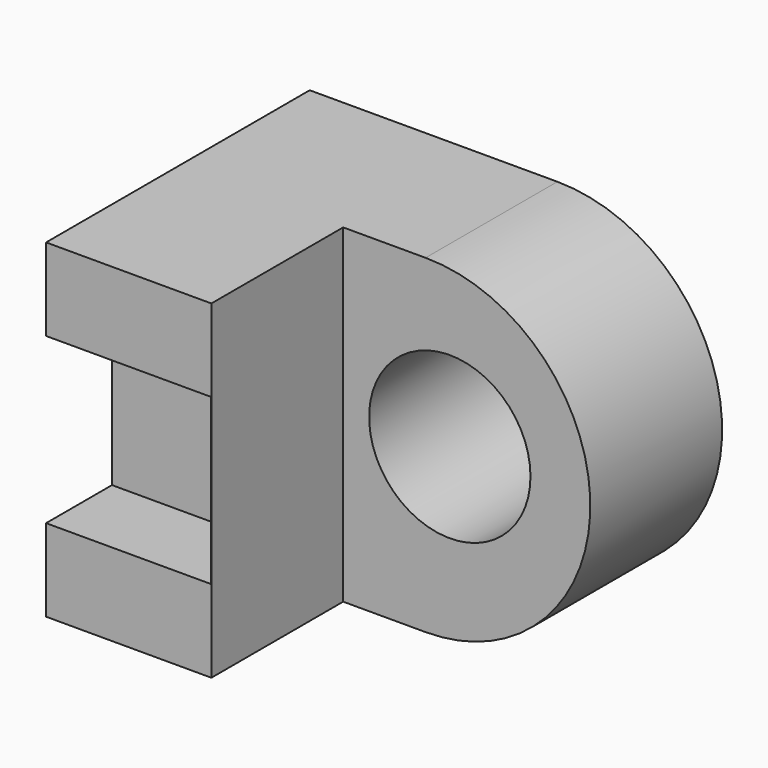
from build123d import *

# Parameters (mm, degrees)
F0_W     = 44.45
F0_H     = 25.4
F1_DEPTH = 25.4
F2_W     = 12.7
F2_H     = 12.7
F3_DEPTH = 6.35
F4_W     = 31.7093898326
F4_H     = 25.4
F5_DEPTH = 12.7
F7_DEPTH = 25.4
F8_R     = 6.2195299404
F9_DEPTH = 25.4


with BuildPart() as f1:
    # F0 (on Front) → F1 (new body)
    with BuildSketch(Plane.XZ):
        with Locations((22.225, 12.7)):
            Rectangle(F0_W, F0_H)
    extrude(amount=F1_DEPTH)

    # F2 (on face) → F3 (cut)
    with BuildSketch(Plane.XZ.offset(25.4)):
        with Locations((6.35, 12.7)):
            Rectangle(F2_W, F2_H)
    extrude(amount=-F3_DEPTH, mode=Mode.SUBTRACT)

    # F4 (on face) → F5 (cut)
    with BuildSketch(Plane.XZ.offset(25.4)):
        with Locations((28.5953050837, 12.7)):
            Rectangle(F4_W, F4_H)
    extrude(amount=-F5_DEPTH, mode=Mode.SUBTRACT)

    # F6 (on face) → F7 (cut)
    with BuildSketch(Plane.XZ.offset(12.7)):
        with BuildLine():
            Line((44.45, 25.4), (19.0906101674, 25.4))
            ThreePointArc((19.0906101674, 25.4), (31.7906101674, 12.7), (19.0906101674, 0))
            Line((19.0906101674, 0), (44.45, 0))
            Line((44.45, 0), (44.45, 25.4))
        make_face()
    extrude(amount=-F7_DEPTH, mode=Mode.SUBTRACT)

    # F8 (on face) → F9 (cut)
    with BuildSketch(Plane.XZ.offset(12.7)):
        with Locations((20.9586918354, 13.1910173222)):
            Circle(F8_R)
    extrude(amount=-F9_DEPTH, mode=Mode.SUBTRACT)


solid = f1.part
